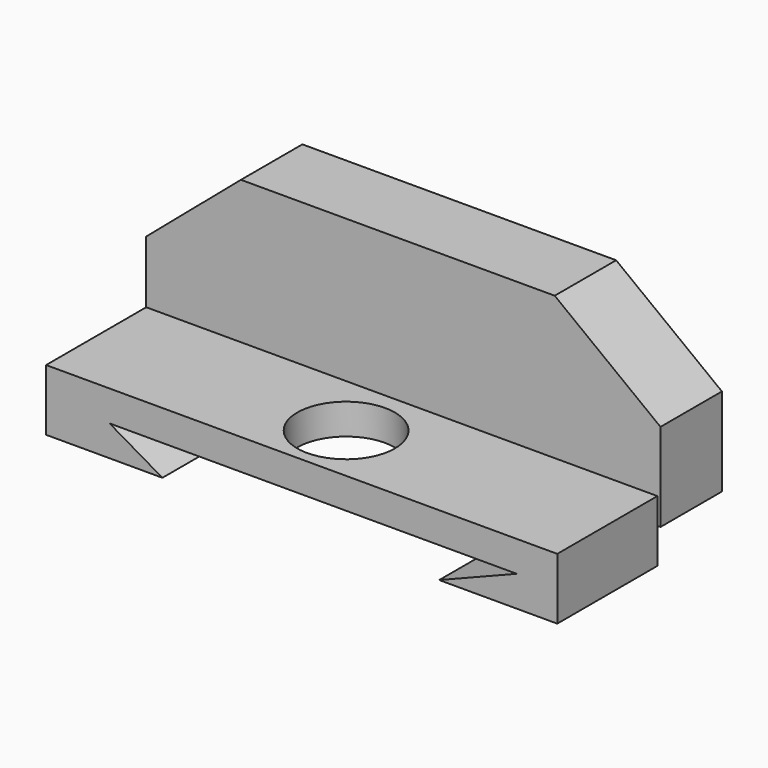
from build123d import *

# Parameters (mm, degrees)
F1_DEPTH = 12.7
F2_W     = 84.5278687775
F2_H     = 20.6947512925
F3_DEPTH = 10.16
F5_DEPTH = 76.2
F6_R     = 8.061811372
F7_DEPTH = 25.4


with BuildPart() as f1:
    # F0 (on Front) → F1 (new body)
    with BuildSketch(Plane.XZ):
        Polygon((25.6498344243, 23.4637726098), (-26.2327864766, 23.4637726098), (-41.9724583626, 10.0559014827), (-41.9724583626, -4.5178690925), (43.1383624673, -4.5178690925), (43.1383624673, 10.0559014827), align=None)
    extrude(amount=F1_DEPTH)


with BuildPart() as f3:
    # F2 (on Top) → F3 (new body)
    with BuildSketch(Plane.XY):
        with Locations((0.5829501897, -23.3180318028)):
            Rectangle(F2_W, F2_H)
    extrude(amount=-F3_DEPTH)

    # F4 (on face) → F5 (cut)
    with BuildSketch(Plane.XZ.offset(33.665407449)):
        Polygon((36.1429527402, -5.08), (-31.1878696084, -5.08), (-22.4436074495, -10.16), (23.3180318028, -10.16), align=None)
    extrude(amount=-F5_DEPTH, mode=Mode.SUBTRACT)

    # F6 (on face) → F7 (cut)
    with BuildSketch(Plane.XY):
        with Locations((0, -23.7552467734)):
            Circle(F6_R)
    extrude(amount=-F7_DEPTH, mode=Mode.SUBTRACT)


solid = Compound([f1.part, f3.part])
